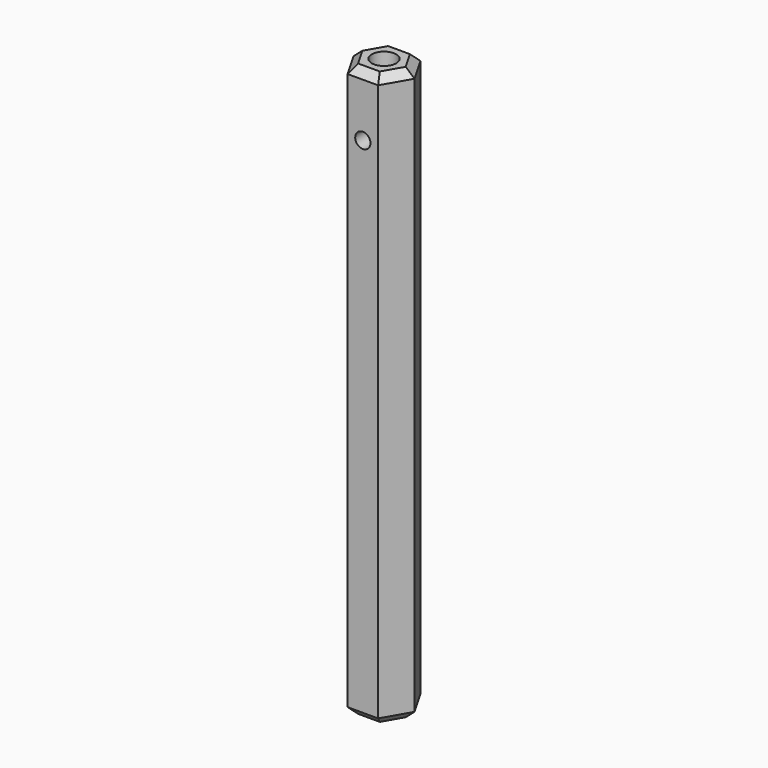
from build123d import *

# Parameters (mm, degrees)
F1_DEPTH = 75
F3_D     = 3.2
F3_DEPTH = 16
F3_TIP   = 0.9613769904
F5_D     = 2
F5_DEPTH = 20
F5_TIP   = 0.600860619
F6_SIZE  = 1


with BuildPart() as f1:
    # F0 (on Top) → F1 (new body)
    with BuildSketch(Plane.XY):
        Polygon((-2, -3.4641016151), (2, -3.4641016151), (4, 0), (2, 3.4641016151), (-2, 3.4641016151), (-4, 0), align=None)
    extrude(amount=F1_DEPTH)

    # F3
    with Locations(Plane.XY.offset(75)):
        with Locations((0, 0)):
            Hole(F3_D / 2, depth=F3_DEPTH)
            with Locations((0, 0, -(F3_DEPTH + F3_TIP / 2))):  # 118° drill point
                Cone(0, F3_D / 2, F3_TIP, mode=Mode.SUBTRACT)

    # F5
    with Locations(Plane(origin=(0, 3.4641016151, 0), x_dir=(-1, 0, 0), z_dir=(0, 1, 0))):
        with Locations((0, 67)):
            Hole(F5_D / 2, depth=F5_DEPTH)
            with Locations((0, 0, -(F5_DEPTH + F5_TIP / 2))):  # 118° drill point
                Cone(0, F5_D / 2, F5_TIP, mode=Mode.SUBTRACT)

    # F6
    f6_edges = [f1.edges().sort_by_distance(p)[0] for p in [
        (0, 3.464102, 75),
        (-3, 1.732051, 75),
        (-3, -1.732051, 75),
        (0, -3.464102, 75),
        (3, -1.732051, 75),
        (3, 1.732051, 75),
        (-3, 1.732051, 0),
        (0, 3.464102, 0),
        (-3, -1.732051, 0),
        (0, -3.464102, 0),
        (3, -1.732051, 0),
        (3, 1.732051, 0),
    ]]
    chamfer(f6_edges, length=F6_SIZE)


solid = f1.part
